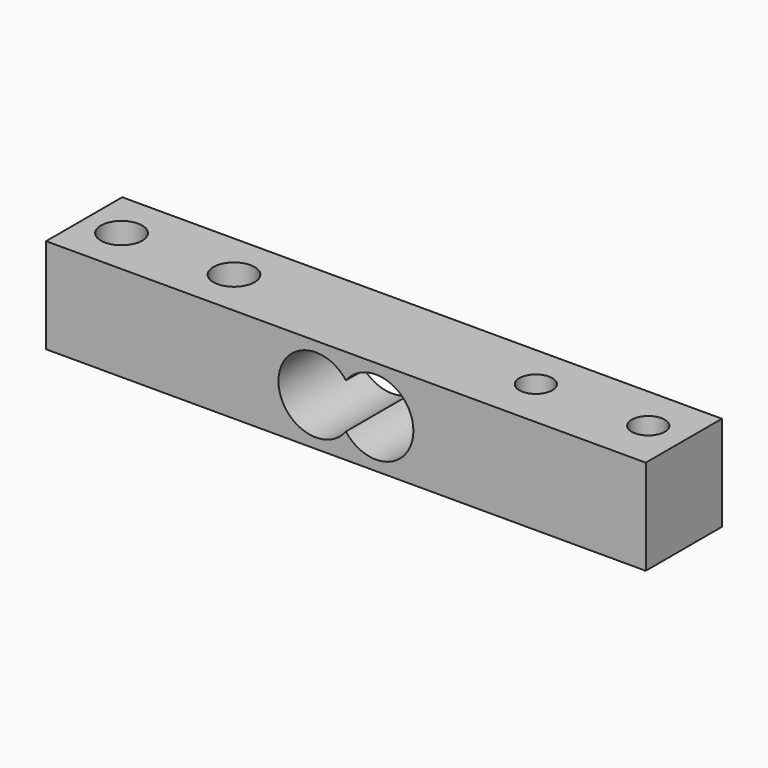
from build123d import *

# Parameters (mm, degrees)
F0_W     = 80
F0_H     = 12.7
F1_DEPTH = 12.7
F3_D     = 10
F5_D     = 4.4
F7_D     = 5.5


with BuildPart() as f1:
    # F0 (on Front) → F1 (new body)
    with BuildSketch(Plane.XZ):
        Rectangle(F0_W, F0_H)
    extrude(amount=F1_DEPTH)

    # F3 (through all)
    with Locations(Plane.XZ.offset(12.7)):
        with Locations((-4, 0), (4, 0)):
            Hole(F3_D / 2)

    # F5 (through all)
    with Locations(Plane.XY.offset(6.35)):
        with Locations((20, -6.0262801126), (35, -6.0262801126)):
            Hole(F5_D / 2)

    # F7 (through all)
    with Locations(Plane.XY.offset(6.35)):
        with Locations((-35, -6.3651315868), (-20, -6.3651315868)):
            Hole(F7_D / 2)


solid = f1.part
